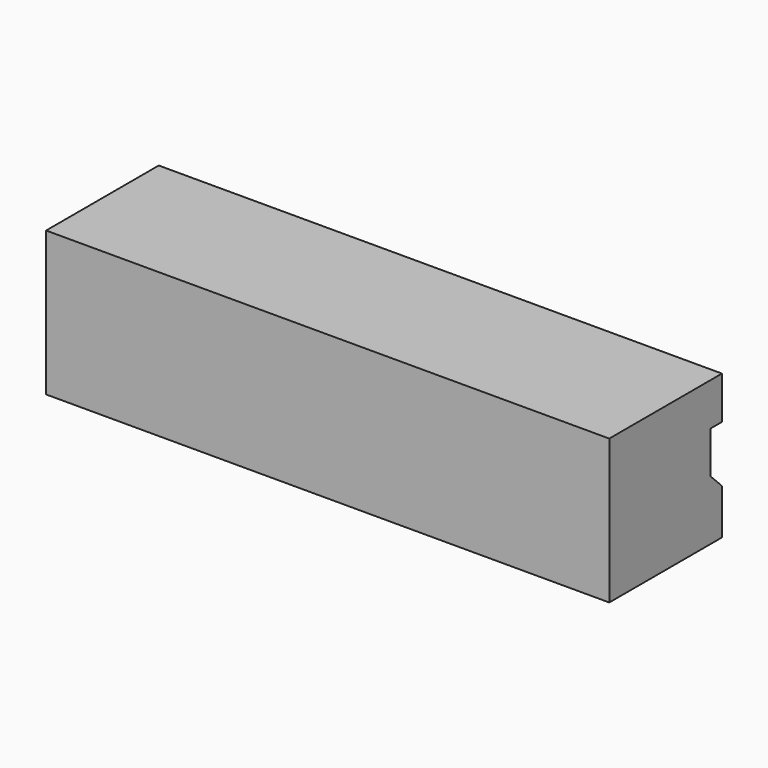
from build123d import *

# Parameters (mm, degrees)
BOX023_W              = 40
BOX023_H              = 2
BOX023_DEPTH          = 4
CHAMFER006019005_SIZE = 1
BOX022_W              = 40
BOX022_H              = 10
BOX022_DEPTH          = 10.25


with BuildPart() as chamfer006019005:
    # Box023 → Box023 (new body)
    with BuildSketch(Plane(origin=(0, 9, 3.225), x_dir=(1, 0, 0), z_dir=(0, 0, 1))):
        with Locations((20, 1)):
            Rectangle(BOX023_W, BOX023_H)
    extrude(amount=BOX023_DEPTH)

    # Chamfer006019005
    chamfer006019005_edges = [chamfer006019005.edges().sort_by_distance(p)[0] for p in [
        (20, 9, 3.225),
    ]]
    chamfer(chamfer006019005_edges, length=CHAMFER006019005_SIZE)


with BuildPart() as t_slot_vertical_align_cut:
    # Box022 → Box022 (new body)
    with BuildSketch(Plane.XY):
        with Locations((20, 5)):
            Rectangle(BOX022_W, BOX022_H)
    extrude(amount=BOX022_DEPTH)

    # Cut026: cut Chamfer006019005
    add(chamfer006019005.part, mode=Mode.SUBTRACT)


solid = t_slot_vertical_align_cut.part
